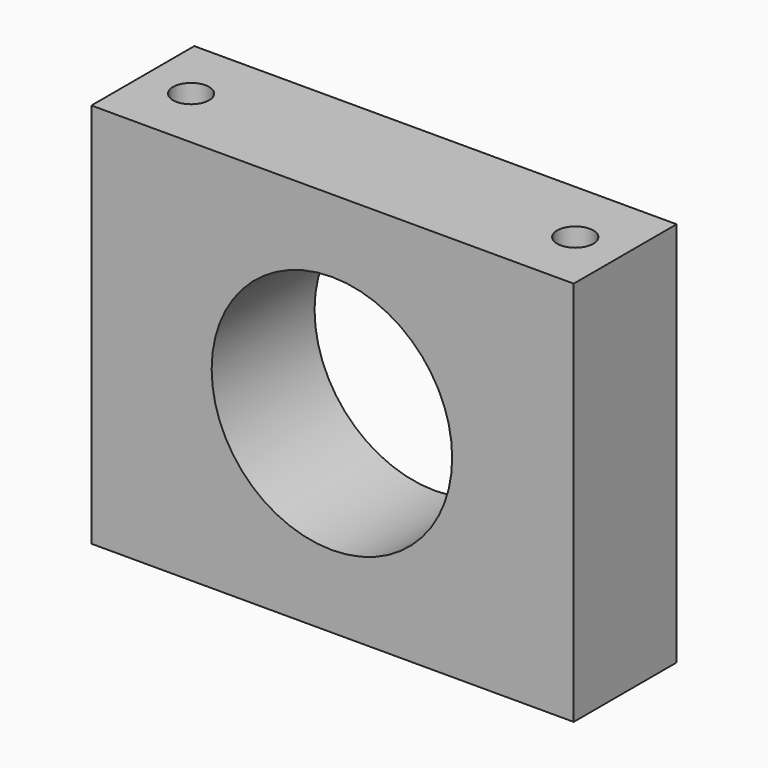
from build123d import *

# Parameters (mm, degrees)
F0_W     = 95.25
F0_H     = 76.2
F0_R     = 23.749
F1_DEPTH = 25.4
F2_R     = 3.5687
F3_DEPTH = 76.201


with BuildPart() as f1:
    # F0 (on Front) → F1 (new body)
    with BuildSketch(Plane.XZ):
        with Locations((-10.305998, 6.797065)):
            Rectangle(F0_W, F0_H)
        with Locations((-10.432998, 6.797065)):
            Circle(F0_R, mode=Mode.SUBTRACT)
    extrude(amount=F1_DEPTH)

    # F2 (on face) → F3 (cut, through all)
    with BuildSketch(Plane.XY.offset(44.897065)):
        with Locations((-48.405998, -12.7)):
            Circle(F2_R)
        with Locations((27.794002, -13.107214)):
            Circle(F2_R)
    extrude(amount=-F3_DEPTH, mode=Mode.SUBTRACT)


solid = f1.part
